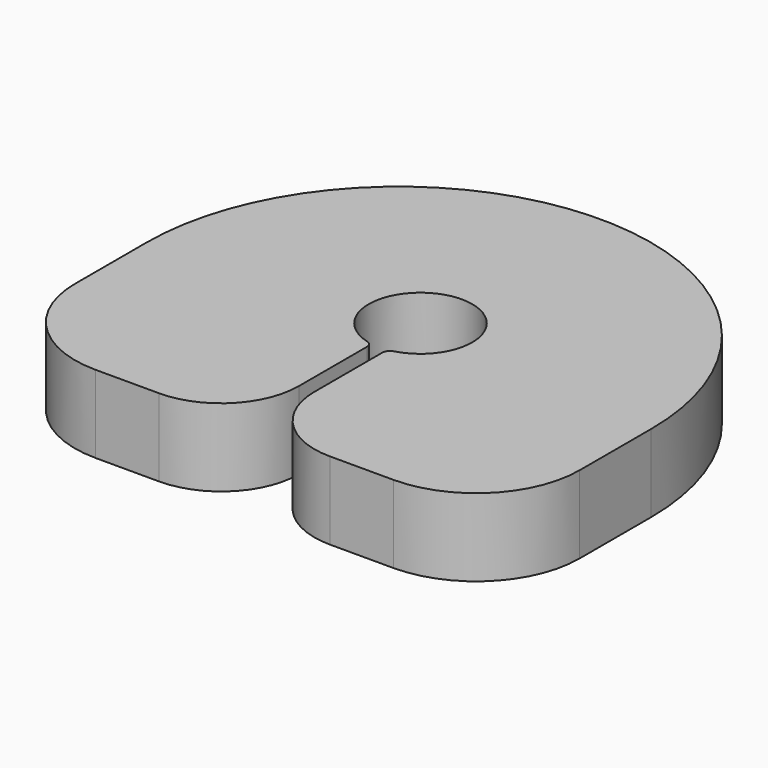
from build123d import *

# Parameters (mm, degrees)
F1_DEPTH = 30


with BuildPart() as f1:
    # F0 (on Top) → F1 (new body)
    with BuildSketch(Plane.XY):
        with BuildLine():
            Line((-97.5, -10.5), (-97.5, -45))
            ThreePointArc((-97.5, -45), (-85.7842712475, -73.2842712475), (-57.5, -85))
            Line((-57.5, -85), (-33, -85))
            ThreePointArc((-33, -85), (-11.7867965644, -76.2132034356), (-3, -55))
            Line((-3, -55), (-3, -22.2036033112))
            ThreePointArc((-3, -22.2036033112), (-3.6180022999, -20.3798470346), (-5.2173913043, -19.3074811402))
            ThreePointArc((-5.2173913043, -19.3074811402), (0, 20), (5.2173913043, -19.3074811402))
            ThreePointArc((5.2173913043, -19.3074811402), (3.6180022999, -20.3798470346), (3, -22.2036033112))
            Line((3, -22.2036033112), (3, -55))
            ThreePointArc((3, -55), (11.7867965644, -76.2132034356), (33, -85))
            Line((33, -85), (57.5, -85))
            ThreePointArc((57.5, -85), (85.7842712475, -73.2842712475), (97.5, -45))
            Line((97.5, -45), (97.5, -10.5))
            ThreePointArc((97.5, -10.5), (0, 87), (-97.5, -10.5))
        make_face()
    extrude(amount=F1_DEPTH)


solid = f1.part
